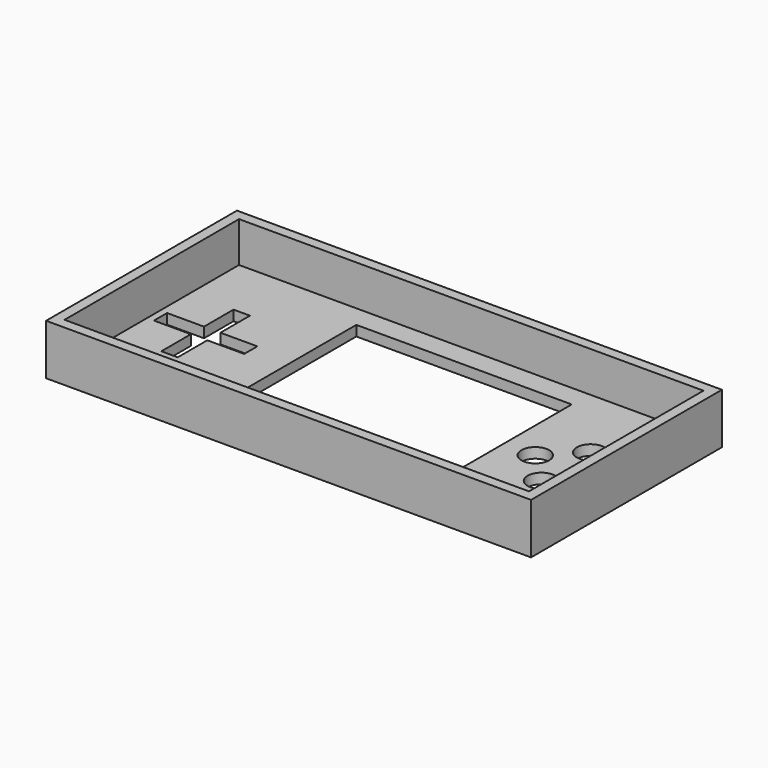
from build123d import *

# Parameters (mm, degrees)
F0_W     = 115.0112
F0_H     = 54.0004
F1_DEPTH = 10
F2_T     = 2.54
F3_W     = 53.34
F3_H     = 38.1
F4_DEPTH = 12.7
F6_DEPTH = 12.7
F7_R     = 3.429
F8_DEPTH = 12.7


with BuildPart() as f1:
    # F0 (on Top) → F1 (new body)
    with BuildSketch(Plane.XY):
        with Locations((1.2398222461, -0.5762684962)):
            Rectangle(F0_W, F0_H)
    extrude(amount=F1_DEPTH)

    # F2
    f2_openings = [f1.faces().sort_by_distance(p)[0] for p in [
        (1.239822, -0.576268, 10),
    ]]
    offset(amount=F2_T, openings=f2_openings, kind=Kind.INTERSECTION)

    # F3 (on face) → F4 (cut, symmetric)
    with BuildSketch(Plane(origin=(0, 0, -2.54), x_dir=(1, 0, 0), z_dir=(0, 0, -1))):
        with Locations((3.7798222461, -1.9637315038)):
            Rectangle(F3_W, F3_H)
    extrude(amount=F4_DEPTH, both=True, mode=Mode.SUBTRACT)

    # F5 (on Top) → F6 (cut, symmetric)
    with BuildSketch(Plane.XY):
        Polygon((-45.4199777539, -2.032), (-45.4199777539, -11.176), (-41.3559777539, -11.176), (-41.3559777539, -2.032), (-32.2119777539, -2.032), (-32.2119777539, 2.032), (-41.3559777539, 2.032), (-41.3559777539, 11.176), (-45.4199777539, 11.176), (-45.4199777539, 2.032), (-54.5639777539, 2.032), (-54.5639777539, -2.032), align=None)
    extrude(amount=F6_DEPTH, both=True, mode=Mode.SUBTRACT)

    # F7 (on Top) → F8 (cut, symmetric)
    with BuildSketch(Plane.XY):
        with Locations((45.8676222461, -7.62)):
            Circle(F7_R)
        with Locations((53.4876222461, 0)):
            Circle(F7_R)
        with Locations((45.8676222461, 7.62)):
            Circle(F7_R)
        with Locations((38.2476222461, 0)):
            Circle(F7_R)
    extrude(amount=F8_DEPTH, both=True, mode=Mode.SUBTRACT)


solid = f1.part
